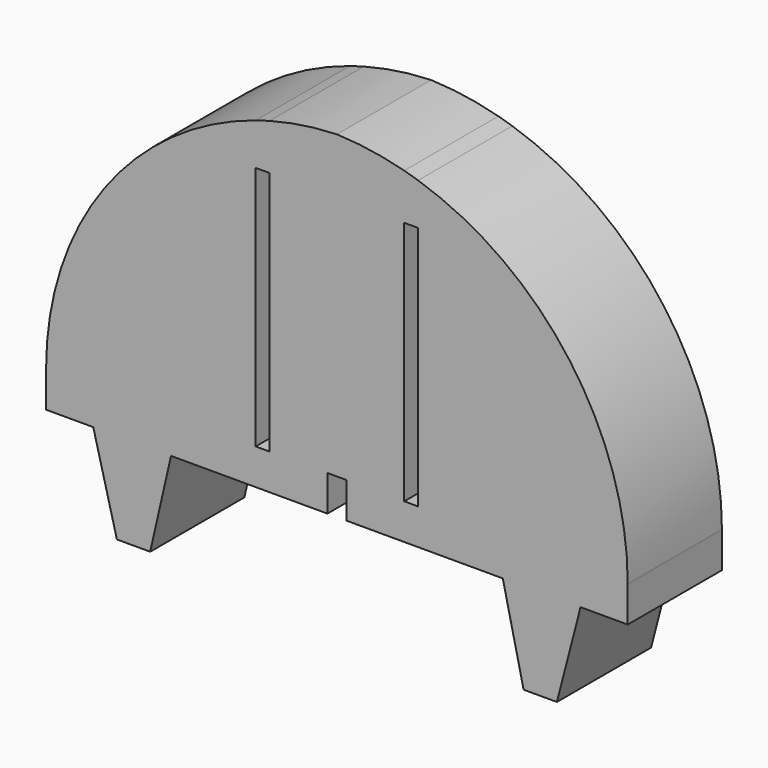
from build123d import *

# Parameters (mm, degrees)
F0_W     = 2.947408
F0_H     = 52.065197
F1_DEPTH = 25


with BuildPart() as f1:
    # F0 (on Front) → F1 (new body)
    with BuildSketch(Plane.XZ):
        with BuildLine():
            ThreePointArc((14.294934, 61.813661), (7.207899, 63.285304), (0, 63.947118))
            ThreePointArc((0, 63.947118), (-7.207899, 63.285304), (-14.294934, 61.813661))
            Line((-14.294934, 61.813661), (-17.242342, 60.94906))
            ThreePointArc((-17.242342, 60.94906), (-49.438073, 37.734725), (-61.749083, 0))
            Line((-61.749083, 0), (-61.749083, -7.60634))
            Line((-61.749083, -7.60634), (-51.727027, -7.60634))
            Line((-51.727027, -7.60634), (-46.716429, -26.968794))
            Line((-46.716429, -26.968794), (-39.642651, -26.968794))
            Line((-39.642651, -26.968794), (-35.221536, -7.60634))
            Line((-35.221536, -7.60634), (-2.013445, -7.60634))
            Line((-2.013445, -7.60634), (-2.013445, 0))
            Line((-2.013445, 0), (2.013445, 0))
            Line((2.013445, 0), (2.013445, -7.60634))
            Line((2.013445, -7.60634), (35.221536, -7.60634))
            Line((35.221536, -7.60634), (39.642651, -26.968794))
            Line((39.642651, -26.968794), (46.716429, -26.968794))
            Line((46.716429, -26.968794), (51.727027, -7.60634))
            Line((51.727027, -7.60634), (61.749083, -7.60634))
            Line((61.749083, -7.60634), (61.749083, 0))
            ThreePointArc((61.749083, 0), (49.438073, 37.734725), (17.242342, 60.94906))
            Line((17.242342, 60.94906), (14.294934, 61.813661))
        make_face()
        with Locations((-15.768638, 26.032598)):
            Rectangle(F0_W, F0_H, mode=Mode.SUBTRACT)
        with Locations((15.768638, 26.032598)):
            Rectangle(F0_W, F0_H, mode=Mode.SUBTRACT)
        with BuildLine():
            ThreePointArc((14.294934, 61.813661), (7.207899, 63.285304), (0, 63.947118))
            ThreePointArc((0, 63.947118), (-7.207899, 63.285304), (-14.294934, 61.813661))
            Line((-14.294934, 61.813661), (-17.242342, 60.94906))
            ThreePointArc((-17.242342, 60.94906), (-49.438073, 37.734725), (-61.749083, 0))
            Line((-61.749083, 0), (-61.749083, -7.60634))
            Line((-61.749083, -7.60634), (-51.727027, -7.60634))
            Line((-51.727027, -7.60634), (-46.716429, -26.968794))
            Line((-46.716429, -26.968794), (-39.642651, -26.968794))
            Line((-39.642651, -26.968794), (-35.221536, -7.60634))
            Line((-35.221536, -7.60634), (-2.013445, -7.60634))
            Line((-2.013445, -7.60634), (-2.013445, 0))
            Line((-2.013445, 0), (2.013445, 0))
            Line((2.013445, 0), (2.013445, -7.60634))
            Line((2.013445, -7.60634), (35.221536, -7.60634))
            Line((35.221536, -7.60634), (39.642651, -26.968794))
            Line((39.642651, -26.968794), (46.716429, -26.968794))
            Line((46.716429, -26.968794), (51.727027, -7.60634))
            Line((51.727027, -7.60634), (61.749083, -7.60634))
            Line((61.749083, -7.60634), (61.749083, 0))
            ThreePointArc((61.749083, 0), (49.438073, 37.734725), (17.242342, 60.94906))
            Line((17.242342, 60.94906), (14.294934, 61.813661))
        make_face()
        with Locations((-15.768638, 26.032598)):
            Rectangle(F0_W, F0_H, mode=Mode.SUBTRACT)
        with Locations((15.768638, 26.032598)):
            Rectangle(F0_W, F0_H, mode=Mode.SUBTRACT)
        with BuildLine():
            ThreePointArc((14.294934, 61.813661), (7.207899, 63.285304), (0, 63.947118))
            ThreePointArc((0, 63.947118), (-7.207899, 63.285304), (-14.294934, 61.813661))
            Line((-14.294934, 61.813661), (-17.242342, 60.94906))
            ThreePointArc((-17.242342, 60.94906), (-49.438073, 37.734725), (-61.749083, 0))
            Line((-61.749083, 0), (-61.749083, -7.60634))
            Line((-61.749083, -7.60634), (-51.727027, -7.60634))
            Line((-51.727027, -7.60634), (-46.716429, -26.968794))
            Line((-46.716429, -26.968794), (-39.642651, -26.968794))
            Line((-39.642651, -26.968794), (-35.221536, -7.60634))
            Line((-35.221536, -7.60634), (-2.013445, -7.60634))
            Line((-2.013445, -7.60634), (-2.013445, 0))
            Line((-2.013445, 0), (2.013445, 0))
            Line((2.013445, 0), (2.013445, -7.60634))
            Line((2.013445, -7.60634), (35.221536, -7.60634))
            Line((35.221536, -7.60634), (39.642651, -26.968794))
            Line((39.642651, -26.968794), (46.716429, -26.968794))
            Line((46.716429, -26.968794), (51.727027, -7.60634))
            Line((51.727027, -7.60634), (61.749083, -7.60634))
            Line((61.749083, -7.60634), (61.749083, 0))
            ThreePointArc((61.749083, 0), (49.438073, 37.734725), (17.242342, 60.94906))
            Line((17.242342, 60.94906), (14.294934, 61.813661))
        make_face()
        with Locations((-15.768638, 26.032598)):
            Rectangle(F0_W, F0_H, mode=Mode.SUBTRACT)
        with Locations((15.768638, 26.032598)):
            Rectangle(F0_W, F0_H, mode=Mode.SUBTRACT)
        with BuildLine():
            ThreePointArc((14.294934, 61.813661), (7.207899, 63.285304), (0, 63.947118))
            ThreePointArc((0, 63.947118), (-7.207899, 63.285304), (-14.294934, 61.813661))
            Line((-14.294934, 61.813661), (-17.242342, 60.94906))
            ThreePointArc((-17.242342, 60.94906), (-49.438073, 37.734725), (-61.749083, 0))
            Line((-61.749083, 0), (-61.749083, -7.60634))
            Line((-61.749083, -7.60634), (-51.727027, -7.60634))
            Line((-51.727027, -7.60634), (-46.716429, -26.968794))
            Line((-46.716429, -26.968794), (-39.642651, -26.968794))
            Line((-39.642651, -26.968794), (-35.221536, -7.60634))
            Line((-35.221536, -7.60634), (-2.013445, -7.60634))
            Line((-2.013445, -7.60634), (-2.013445, 0))
            Line((-2.013445, 0), (2.013445, 0))
            Line((2.013445, 0), (2.013445, -7.60634))
            Line((2.013445, -7.60634), (35.221536, -7.60634))
            Line((35.221536, -7.60634), (39.642651, -26.968794))
            Line((39.642651, -26.968794), (46.716429, -26.968794))
            Line((46.716429, -26.968794), (51.727027, -7.60634))
            Line((51.727027, -7.60634), (61.749083, -7.60634))
            Line((61.749083, -7.60634), (61.749083, 0))
            ThreePointArc((61.749083, 0), (49.438073, 37.734725), (17.242342, 60.94906))
            Line((17.242342, 60.94906), (14.294934, 61.813661))
        make_face()
        with Locations((-15.768638, 26.032598)):
            Rectangle(F0_W, F0_H, mode=Mode.SUBTRACT)
        with Locations((15.768638, 26.032598)):
            Rectangle(F0_W, F0_H, mode=Mode.SUBTRACT)
    extrude(amount=F1_DEPTH)


solid = f1.part
